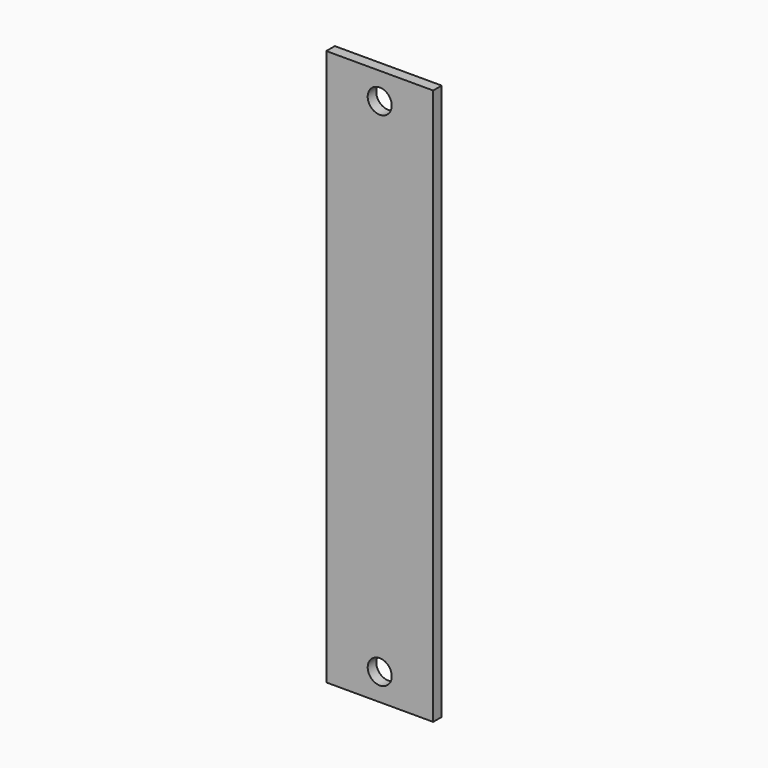
from build123d import *

# Parameters (mm, degrees)
F0_W     = 127
F0_H     = 660.4
F0_R     = 14.2875
F1_DEPTH = 9.525
F2_DEPTH = 12.7


with BuildPart() as f1:
    # F0 (on Front) → F1 (new body)
    with BuildSketch(Plane.XZ):
        Rectangle(F0_W, F0_H)
        with Locations((0, -298.45)):
            Circle(F0_R, mode=Mode.SUBTRACT)
        with Locations((0, 298.45)):
            Circle(F0_R, mode=Mode.SUBTRACT)
    extrude(amount=F1_DEPTH)

    # F0 (on Front) → F2 (join)
    with BuildSketch(Plane.XZ):
        Rectangle(F0_W, F0_H)
        with Locations((0, -298.45)):
            Circle(F0_R, mode=Mode.SUBTRACT)
        with Locations((0, 298.45)):
            Circle(F0_R, mode=Mode.SUBTRACT)
    extrude(amount=F2_DEPTH)


solid = f1.part
